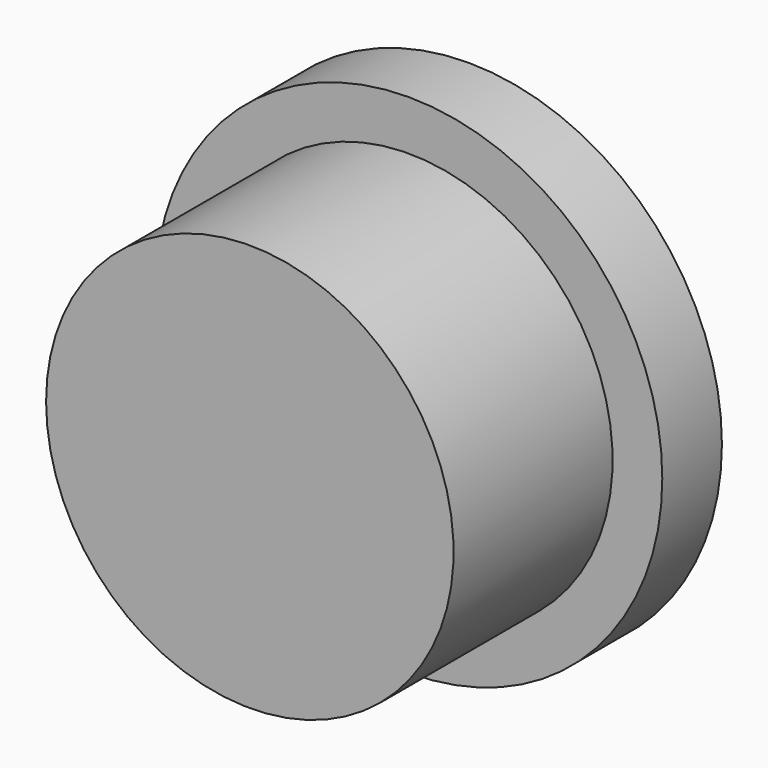
from build123d import *


with BuildPart() as f1:
    # F0 (on Top) → F1 (revolve)
    with BuildSketch(Plane.XY):
        with BuildLine():
            Line((-8.2, 0), (0, 0))
            Line((0, 0), (0, 13))
            ThreePointArc((0, 13), (-5.197115, 12.495284), (-10.2, 11))
            Line((-10.2, 11), (-10.2, 8))
            Line((-10.2, 8), (-8.2, 8))
            Line((-8.2, 8), (-8.2, 0))
        make_face()
    revolve(axis=Axis((0, -6.5, 0), (0, 1, 0)))


solid = f1.part
